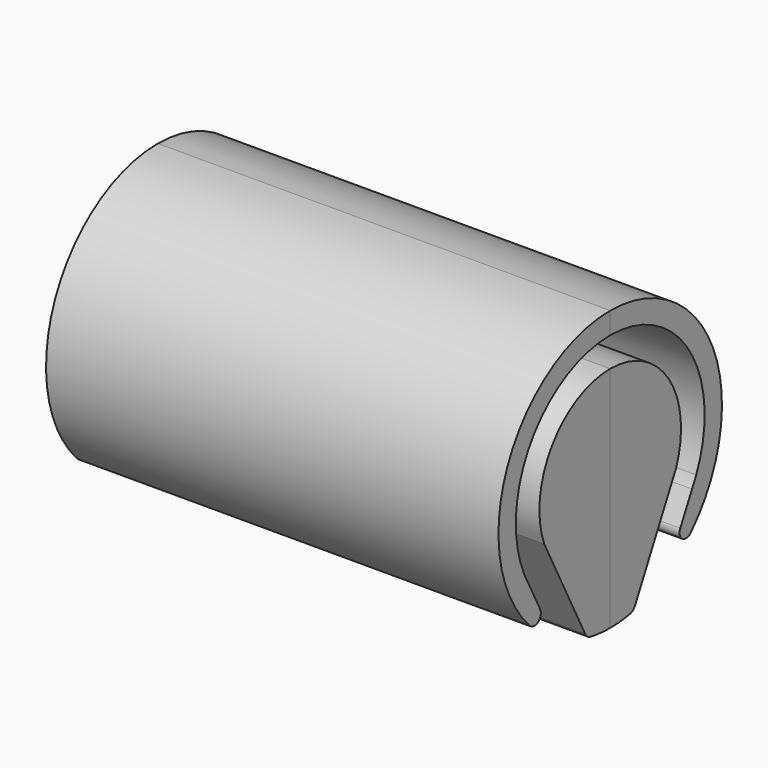
from build123d import *

# Parameters (mm, degrees)
F1_DEPTH = 23
F2_DEPTH = 2
F3_DEPTH = 23
F4_DEPTH = 21


with BuildPart() as f1:
    # F0 (on Right) → F1 (new body)
    with BuildSketch(Plane.YZ):
        with BuildLine():
            ThreePointArc((-5.465611, -2.475297), (-5.042409, 3.251786), (0, 6))
            Line((0, 6), (0, 7.1))
            ThreePointArc((0, 7.1), (-6.533266, 2.779648), (-5.115543, -4.923538))
            ThreePointArc((-5.115543, -4.923538), (-5.067157, -4.966482), (-5.012642, -5.001318))
            ThreePointArc((-5.012642, -5.001318), (-4.530016, -4.931471), (-4.452483, -4.45002))
            Line((-4.452483, -4.45002), (-5.19851, -2.995912))
            ThreePointArc((-5.19851, -2.995912), (-5.338411, -2.738862), (-5.465611, -2.475297))
        make_face()
        with BuildLine():
            ThreePointArc((0, -3.5), (-3.5, 0), (0, 3.5))
            Line((0, 3.5), (0, 4.5))
            ThreePointArc((0, 4.5), (-3.720455, 2.531445), (-4.185834, -1.651905))
            Line((-4.185834, -1.651905), (-1.584982, -6.728399))
            ThreePointArc((-1.584982, -6.728399), (-1.503297, -6.84399), (-1.392545, -6.932125))
            Line((-1.392545, -6.932125), (-1.356773, -6.951204))
            ThreePointArc((-1.356773, -6.951204), (-1.291931, -6.977086), (-1.22412, -6.993704))
            Line((-1.22412, -6.993704), (-1.205325, -6.996942))
            ThreePointArc((-1.205325, -6.996942), (-0.604862, -7.074188), (0, -7.1))
            Line((0, -7.1), (0, -3.5))
        make_face()
    extrude(amount=F1_DEPTH)

    # F0 (on Right) → F3 (join)
    with BuildSketch(Plane.YZ):
        with BuildLine():
            Line((0, -3.5), (0, 3.5))
            ThreePointArc((0, 3.5), (-3.5, 0), (0, -3.5))
        make_face()
    extrude(amount=F3_DEPTH)

    # F0 (on Right) → F4 (cut)
    with BuildSketch(Plane.YZ):
        with BuildLine():
            Line((0, -3.5), (0, 3.5))
            ThreePointArc((0, 3.5), (-3.5, 0), (0, -3.5))
        make_face()
    extrude(amount=F4_DEPTH, mode=Mode.SUBTRACT)


with BuildPart() as f2:
    # F0 (on Right) → F2 (new body)
    with BuildSketch(Plane.YZ):
        with BuildLine():
            ThreePointArc((-4.185834, -1.651905), (-3.720455, 2.531445), (0, 4.5))
            Line((0, 4.5), (0, 6))
            ThreePointArc((0, 6), (-5.042409, 3.251786), (-5.465611, -2.475297))
            Line((-5.465611, -2.475297), (-5.19851, -2.995912))
            Line((-5.19851, -2.995912), (-4.452483, -4.45002))
            ThreePointArc((-4.452483, -4.45002), (-4.530016, -4.931471), (-5.012642, -5.001318))
            Line((-5.012642, -5.001318), (-1.392545, -6.932125))
            ThreePointArc((-1.392545, -6.932125), (-1.503297, -6.84399), (-1.584982, -6.728399))
            Line((-1.584982, -6.728399), (-4.185834, -1.651905))
        make_face()
    extrude(amount=F2_DEPTH)


with BuildPart() as f5_1:
    # F5: instance of F1
    add(f1.part.mirror(Plane.XZ))


with BuildPart() as f5_2:
    # F5: instance of F2
    add(f2.part.mirror(Plane.XZ))


solid = Compound([f1.part, f2.part, f5_1.part, f5_2.part])
